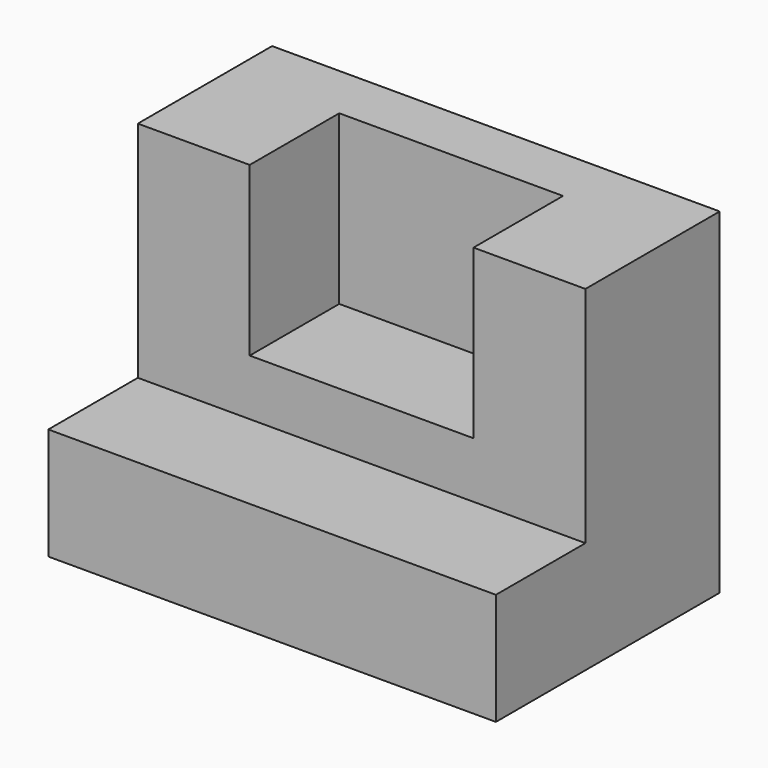
from build123d import *

# Parameters (mm, degrees)
F0_W     = 101.6
F0_H     = 63.5
F1_DEPTH = 25.4
F3_DEPTH = 50.8
F4_W     = 50.8
F4_H     = 25.4
F5_DEPTH = 12.7


with BuildPart() as f1:
    # F0 (on Top) → F1 (new body)
    with BuildSketch(Plane.XY):
        with Locations((20.211336, -2.671048)):
            Rectangle(F0_W, F0_H)
    extrude(amount=F1_DEPTH)

    # F2 (on face) → F3 (join)
    with BuildSketch(Plane.XY.offset(25.4)):
        Polygon((-30.588664, 29.078952), (-30.588664, -9.021048), (-5.188664, -9.021048), (-5.188664, 16.378952), (45.611336, 16.378952), (45.611336, -9.021048), (71.011336, -9.021048), (71.011336, 29.078952), align=None)
    extrude(amount=F3_DEPTH)

    # F4 (on face) → F5 (join)
    with BuildSketch(Plane.XY.offset(25.4)):
        with Locations((20.211336, 3.678952)):
            Rectangle(F4_W, F4_H)
    extrude(amount=F5_DEPTH)


solid = f1.part
